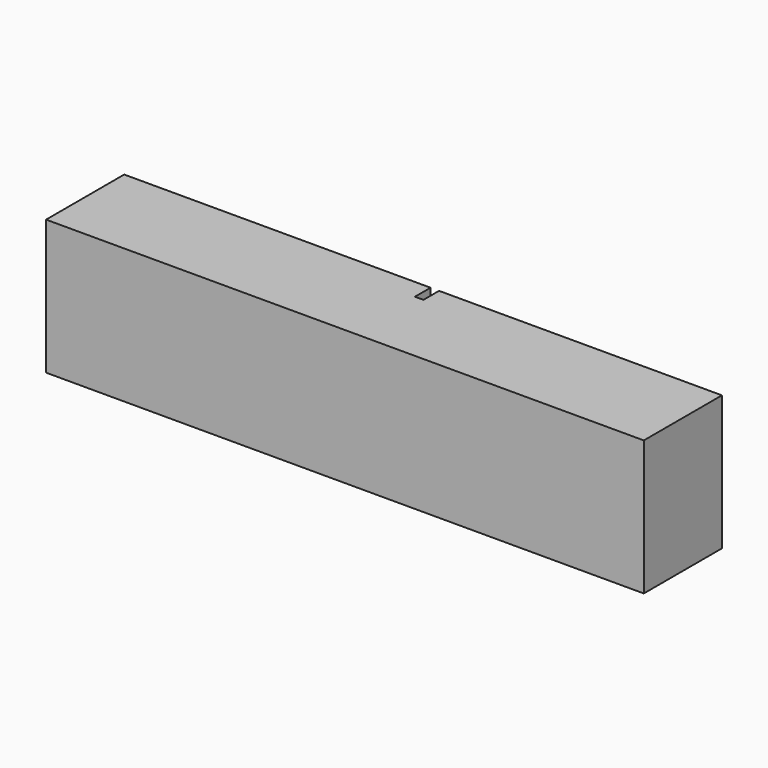
from build123d import *

# Parameters (mm, degrees)
F1_DEPTH = 25.4
F3_DEPTH = 12.7
F4_W     = 2.2122580558
F4_H     = 3.5250894725
F5_DEPTH = 5.08


with BuildPart() as f1:
    # F0 (on Front) → F1 (new body)
    with BuildSketch(Plane.XZ):
        Polygon((93.8095524907, 0), (0, 0), (-61.6634264588, 0), (-61.6634264588, -35.0497663021), (93.8095524907, -35.0497663021), align=None)
    extrude(amount=F1_DEPTH)

    # F2 (on face) → F3 (cut)
    with BuildSketch(Plane(origin=(0, 0, 0), x_dir=(-1, 0, 0), z_dir=(0, 1, 0))):
        Polygon((57.5629658997, -3.6870969925), (-89.9209007621, -2.7653225698), (-89.9209007621, -31.5246768296), (57.5629658997, -31.5246768296), align=None)
    extrude(amount=-F3_DEPTH, mode=Mode.SUBTRACT)

    # F4 (on face) → F5 (cut)
    with BuildSketch(Plane(origin=(0, 0, 0), x_dir=(-1, 0, 0), z_dir=(0, 1, 0))):
        with Locations((-19.1286476329, -33.2872215658)):
            Rectangle(F4_W, F4_H)
        Polygon((-18.022518605, 0), (-20.2347766608, 0), (-20.2347766608, -3.2008609664), (-18.022518605, -3.2262097811), align=None)
    extrude(amount=-F5_DEPTH, mode=Mode.SUBTRACT)


solid = f1.part
